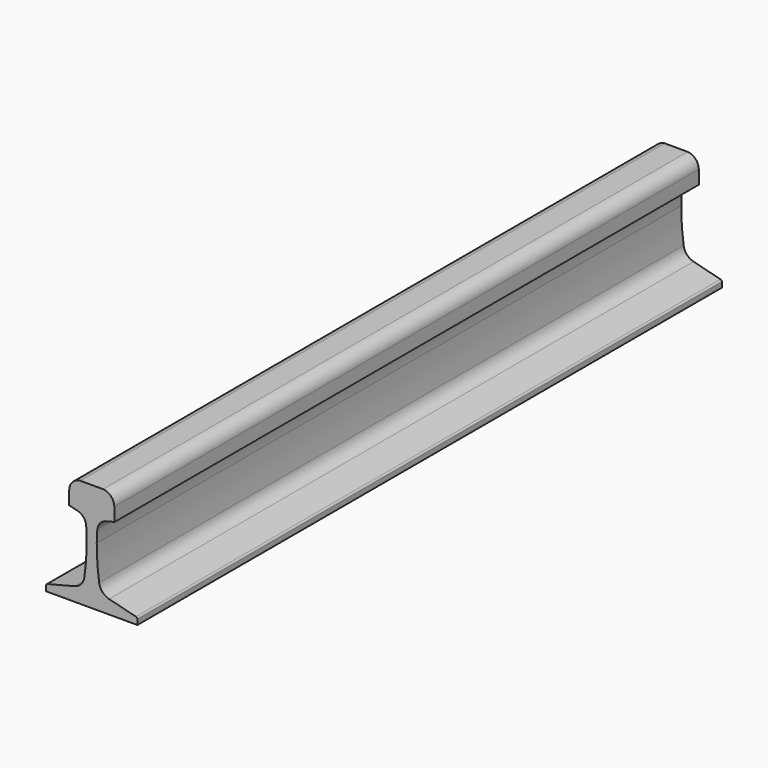
from build123d import *

# Parameters (mm, degrees)
F1_DEPTH = 1219.2
F2_R     = 3.175
F3_R     = 22.225
F4_R     = 19.05


with BuildPart() as f1:
    # F0 (on Front) → F1 (new body)
    with BuildSketch(Plane.XZ):
        Polygon((-76.2, 10.880936), (-76.2, 0), (76.2, 0), (76.2, 10.880936), (14.762829, 26.42693), (8.334375, 28.053579), (-8.334375, 28.053579), (-14.762829, 26.42693), align=None)
        with BuildLine():
            ThreePointArc((-8.334375, 98.425), (-9.944679, 62.282756), (-14.762829, 26.42693))
            Line((-14.762829, 26.42693), (-8.334375, 28.053579))
            Line((-8.334375, 28.053579), (-8.334375, 98.425))
        make_face()
        with BuildLine():
            Line((8.334375, 28.053579), (14.762829, 26.42693))
            ThreePointArc((14.762829, 26.42693), (9.944679, 62.282756), (8.334375, 98.425))
            Line((8.334375, 98.425), (8.334375, 28.053579))
        make_face()
        Polygon((-8.334375, 98.425), (-8.334375, 28.053579), (0, 30.1625), (8.334375, 28.053579), (8.334375, 98.425), (8.334375, 131.490171), (0, 129.38125), (-8.334375, 131.490171), align=None)
        Polygon((-11.161954, 132.205659), (-8.334375, 131.490171), (8.334375, 131.490171), (11.161954, 132.205659), (38.1, 139.022032), (-38.1, 139.022032), align=None)
        with BuildLine():
            Line((-37.607689, 161.405181), (-38.1, 139.022032))
            Line((-38.1, 139.022032), (38.1, 139.022032))
            Line((38.1, 139.022032), (37.607689, 161.405181))
            ThreePointArc((37.607689, 161.405181), (32.106429, 174.772303), (19.05, 180.975))
            Line((19.05, 180.975), (-19.05, 180.975))
            ThreePointArc((-19.05, 180.975), (-32.106429, 174.772303), (-37.607689, 161.405181))
        make_face()
        Polygon((8.334375, 131.490171), (-8.334375, 131.490171), (0, 129.38125), align=None)
        with BuildLine():
            Line((8.334375, 131.490171), (8.334375, 98.425))
            ThreePointArc((8.334375, 98.425), (9.042504, 115.374396), (11.161954, 132.205659))
            Line((11.161954, 132.205659), (8.334375, 131.490171))
        make_face()
        with BuildLine():
            ThreePointArc((-11.161954, 132.205659), (-9.042504, 115.374396), (-8.334375, 98.425))
            Line((-8.334375, 98.425), (-8.334375, 131.490171))
            Line((-8.334375, 131.490171), (-11.161954, 132.205659))
        make_face()
        Polygon((0, 30.1625), (-8.334375, 28.053579), (8.334375, 28.053579), align=None)
    extrude(amount=F1_DEPTH)

    # F2
    f2_edges = [f1.edges().sort_by_distance(p)[0] for p in [
        (76.2, -609.6, 10.880936),
        (-76.2, -609.6, 10.880936),
    ]]
    fillet(f2_edges, radius=F2_R)

    # F3
    f3_edges = [f1.edges().sort_by_distance(p)[0] for p in [
        (14.762829, -609.6, 26.42693),
        (-14.762829, -609.6, 26.42693),
    ]]
    fillet(f3_edges, radius=F3_R)

    # F4
    f4_edges = [f1.edges().sort_by_distance(p)[0] for p in [
        (-11.161954, -609.6, 132.205659),
        (11.161954, -609.6, 132.205659),
    ]]
    fillet(f4_edges, radius=F4_R)


solid = f1.part
